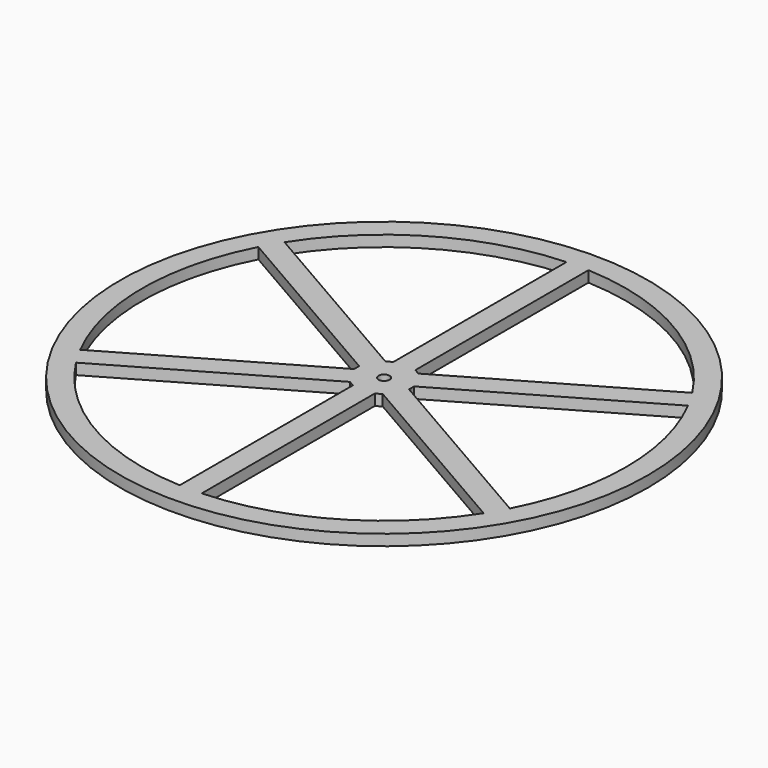
from build123d import *

# Parameters (mm, degrees)
F0_R     = 76.2
F0_R_2   = 1.5875
F1_DEPTH = 3.175


with BuildPart() as f1:
    # F0 (on Top) → F1 (new body)
    with BuildSketch(Plane.XY):
        Circle(F0_R)
        with BuildLine():
            ThreePointArc((62.016851, 32.139271), (67.863464, 16.540035), (69.85, 0))
            ThreePointArc((69.85, 0), (67.863464, -16.540035), (62.016851, -32.139271))
            ThreePointArc((62.016851, -32.139271), (60.491874, -34.925), (58.841851, -37.638532))
            ThreePointArc((58.841851, -37.638532), (34.925, -60.491874), (3.175, -69.777804))
            ThreePointArc((3.175, -69.777804), (0, -69.85), (-3.175, -69.777804))
            ThreePointArc((-3.175, -69.777804), (-34.925, -60.491874), (-58.841851, -37.638532))
            ThreePointArc((-58.841851, -37.638532), (-60.491874, -34.925), (-62.016851, -32.139271))
            ThreePointArc((-62.016851, -32.139271), (-69.85, 0), (-62.016851, 32.139271))
            ThreePointArc((-62.016851, 32.139271), (-60.491874, 34.925), (-58.841851, 37.638532))
            ThreePointArc((-58.841851, 37.638532), (-34.925, 60.491874), (-3.175, 69.777804))
            ThreePointArc((-3.175, 69.777804), (0, 69.85), (3.175, 69.777804))
            ThreePointArc((3.175, 69.777804), (34.925, 60.491874), (58.841851, 37.638532))
            ThreePointArc((58.841851, 37.638532), (60.491874, 34.925), (62.016851, 32.139271))
        make_face(mode=Mode.SUBTRACT)
        Circle(F0_R)
        with BuildLine():
            ThreePointArc((62.016851, 32.139271), (67.863464, 16.540035), (69.85, 0))
            ThreePointArc((69.85, 0), (67.863464, -16.540035), (62.016851, -32.139271))
            ThreePointArc((62.016851, -32.139271), (60.491874, -34.925), (58.841851, -37.638532))
            ThreePointArc((58.841851, -37.638532), (34.925, -60.491874), (3.175, -69.777804))
            ThreePointArc((3.175, -69.777804), (0, -69.85), (-3.175, -69.777804))
            ThreePointArc((-3.175, -69.777804), (-34.925, -60.491874), (-58.841851, -37.638532))
            ThreePointArc((-58.841851, -37.638532), (-60.491874, -34.925), (-62.016851, -32.139271))
            ThreePointArc((-62.016851, -32.139271), (-69.85, 0), (-62.016851, 32.139271))
            ThreePointArc((-62.016851, 32.139271), (-60.491874, 34.925), (-58.841851, 37.638532))
            ThreePointArc((-58.841851, 37.638532), (-34.925, 60.491874), (-3.175, 69.777804))
            ThreePointArc((-3.175, 69.777804), (0, 69.85), (3.175, 69.777804))
            ThreePointArc((3.175, 69.777804), (34.925, 60.491874), (58.841851, 37.638532))
            ThreePointArc((58.841851, 37.638532), (60.491874, 34.925), (62.016851, 32.139271))
        make_face(mode=Mode.SUBTRACT)
        with BuildLine():
            Line((-4.712695, 6.38705), (-58.841851, 37.638532))
            ThreePointArc((-58.841851, 37.638532), (-60.491874, 34.925), (-62.016851, 32.139271))
            Line((-62.016851, 32.139271), (-7.887695, 0.887789))
            ThreePointArc((-7.887695, 0.887789), (-6.874077, 3.96875), (-4.712695, 6.38705))
        make_face()
        with BuildLine():
            ThreePointArc((-62.016851, -32.139271), (-60.491874, -34.925), (-58.841851, -37.638532))
            Line((-58.841851, -37.638532), (-4.712695, -6.38705))
            ThreePointArc((-4.712695, -6.38705), (-6.874077, -3.96875), (-7.887695, -0.887789))
            Line((-7.887695, -0.887789), (-62.016851, -32.139271))
        make_face()
        with BuildLine():
            ThreePointArc((7.9375, 0), (7.925039, 0.444592), (7.887695, 0.887789))
            ThreePointArc((7.887695, 0.887789), (6.874077, 3.96875), (4.712695, 6.38705))
            ThreePointArc((4.712695, 6.38705), (3.96875, 6.874077), (3.175, 7.274839))
            Line((3.175, 7.274839), (-3.175, 7.274839))
            ThreePointArc((-3.175, 7.274839), (-3.96875, 6.874077), (-4.712695, 6.38705))
            ThreePointArc((-4.712695, 6.38705), (-6.874077, 3.96875), (-7.887695, 0.887789))
            ThreePointArc((-7.887695, 0.887789), (-7.9375, 0), (-7.887695, -0.887789))
            ThreePointArc((-7.887695, -0.887789), (-6.874077, -3.96875), (-4.712695, -6.38705))
            ThreePointArc((-4.712695, -6.38705), (-3.96875, -6.874077), (-3.175, -7.274839))
            ThreePointArc((-3.175, -7.274839), (0, -7.9375), (3.175, -7.274839))
            ThreePointArc((3.175, -7.274839), (3.96875, -6.874077), (4.712695, -6.38705))
            ThreePointArc((4.712695, -6.38705), (6.874077, -3.96875), (7.887695, -0.887789))
            ThreePointArc((7.887695, -0.887789), (7.925039, -0.444592), (7.9375, 0))
        make_face()
        Circle(F0_R_2, mode=Mode.SUBTRACT)
        with BuildLine():
            ThreePointArc((-3.175, -69.777804), (0, -69.85), (3.175, -69.777804))
            Line((3.175, -69.777804), (3.175, -7.274839))
            ThreePointArc((3.175, -7.274839), (0, -7.9375), (-3.175, -7.274839))
            Line((-3.175, -7.274839), (-3.175, -69.777804))
        make_face()
        with BuildLine():
            ThreePointArc((58.841851, -37.638532), (60.491874, -34.925), (62.016851, -32.139271))
            Line((62.016851, -32.139271), (7.887695, -0.887789))
            ThreePointArc((7.887695, -0.887789), (6.874077, -3.96875), (4.712695, -6.38705))
            Line((4.712695, -6.38705), (58.841851, -37.638532))
        make_face()
        with BuildLine():
            Line((7.887695, 0.887789), (62.016851, 32.139271))
            ThreePointArc((62.016851, 32.139271), (60.491874, 34.925), (58.841851, 37.638532))
            Line((58.841851, 37.638532), (4.712695, 6.38705))
            ThreePointArc((4.712695, 6.38705), (6.874077, 3.96875), (7.887695, 0.887789))
        make_face()
        with BuildLine():
            Line((3.175, 7.274839), (3.175, 69.777804))
            ThreePointArc((3.175, 69.777804), (0, 69.85), (-3.175, 69.777804))
            Line((-3.175, 69.777804), (-3.175, 7.274839))
            ThreePointArc((-3.175, 7.274839), (0, 7.9375), (3.175, 7.274839))
        make_face()
        with BuildLine():
            Line((-3.175, 7.274839), (3.175, 7.274839))
            ThreePointArc((3.175, 7.274839), (0, 7.9375), (-3.175, 7.274839))
        make_face()
    extrude(amount=F1_DEPTH)


solid = f1.part
